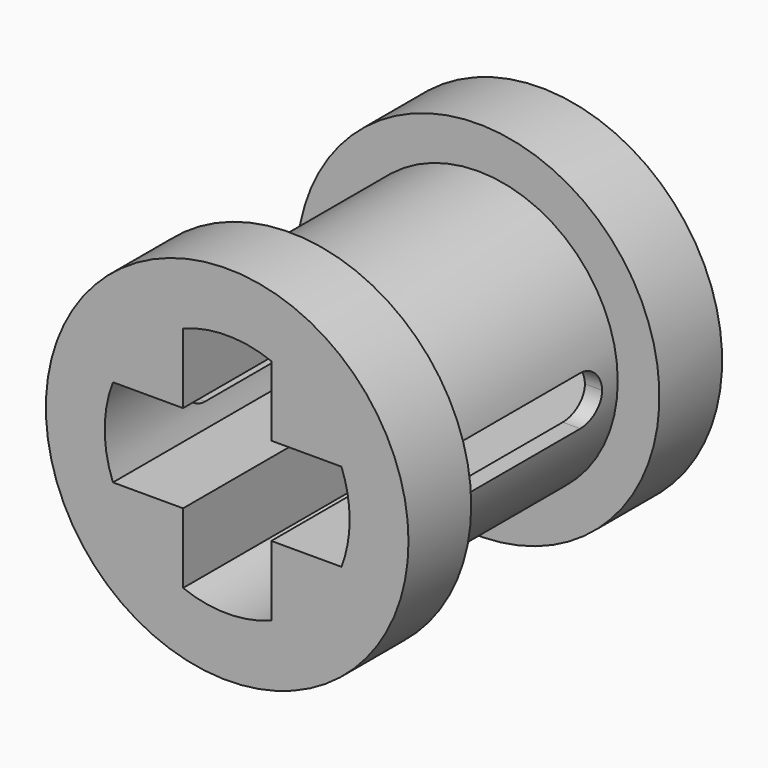
from build123d import *

# Parameters (mm, degrees)
F0_R     = 2.85
F1_DEPTH = 4
F2_R     = 3.7
F2_R_2   = 2.85
F3_DEPTH = 1.6
F4_R     = 3.7
F4_R_2   = 2.85
F5_DEPTH = 1.6
F7_DEPTH = 8.001
F9_DEPTH = 12.5


with BuildPart() as f1:
    # F0 (on Front) → F1 (new body, symmetric)
    with BuildSketch(Plane.XZ):
        Circle(F0_R)
    extrude(amount=F1_DEPTH, both=True)

    # F2 (on face) → F3 (join)
    with BuildSketch(Plane.XZ.offset(4)):
        Circle(F2_R)
        Circle(F2_R_2, mode=Mode.SUBTRACT)
    extrude(amount=-F3_DEPTH)

    # F4 (on face) → F5 (join)
    with BuildSketch(Plane(origin=(0, 4, 0), x_dir=(-1, 0, 0), z_dir=(0, 1, 0))):
        Circle(F4_R)
        Circle(F4_R_2, mode=Mode.SUBTRACT)
    extrude(amount=-F5_DEPTH)

    # F6 (on face) → F7 (cut, through all)
    with BuildSketch(Plane.XZ.offset(4)):
        with BuildLine():
            ThreePointArc((2.331309, -0.9), (2.45672, -0.457745), (2.499, 0))
            ThreePointArc((2.499, 0), (2.45672, 0.457745), (2.331309, 0.9))
            Line((2.331309, 0.9), (0.9, 0.9))
            Line((0.9, 0.9), (0.9, 2.331309))
            ThreePointArc((0.9, 2.331309), (0, 2.499), (-0.9, 2.331309))
            Line((-0.9, 2.331309), (-0.9, 0.9))
            Line((-0.9, 0.9), (-2.331309, 0.9))
            ThreePointArc((-2.331309, 0.9), (-2.499, 0), (-2.331309, -0.9))
            Line((-2.331309, -0.9), (-0.9, -0.9))
            Line((-0.9, -0.9), (-0.9, -2.331309))
            ThreePointArc((-0.9, -2.331309), (0, -2.499), (0.9, -2.331309))
            Line((0.9, -2.331309), (0.9, -0.9))
            Line((0.9, -0.9), (2.331309, -0.9))
        make_face()
    extrude(amount=-F7_DEPTH, mode=Mode.SUBTRACT)

    # F8 (on Right) → F9 (cut, symmetric)
    with BuildSketch(Plane.YZ):
        with BuildLine():
            Line((1.5, 0), (0, 0))
            Line((0, 0), (-1.5, 0))
            Line((-1.5, 0), (-2, 0))
            ThreePointArc((-2, 0), (-1.853553, -0.353553), (-1.5, -0.5))
            Line((-1.5, -0.5), (1.5, -0.5))
            ThreePointArc((1.5, -0.5), (1.853553, -0.353553), (2, 0))
            Line((2, 0), (1.5, 0))
        make_face()
        with BuildLine():
            Line((0, 0.5), (0, 0))
            Line((0, 0), (1.5, 0))
            Line((1.5, 0), (2, 0))
            ThreePointArc((2, 0), (1.853553, 0.353553), (1.5, 0.5))
            Line((1.5, 0.5), (0, 0.5))
        make_face()
        with BuildLine():
            Line((-1.5, 0), (0, 0))
            Line((0, 0), (0, 0.5))
            Line((0, 0.5), (-1.5, 0.5))
            ThreePointArc((-1.5, 0.5), (-1.853553, 0.353553), (-2, 0))
            Line((-2, 0), (-1.5, 0))
        make_face()
    extrude(amount=F9_DEPTH, both=True, mode=Mode.SUBTRACT)


solid = f1.part
